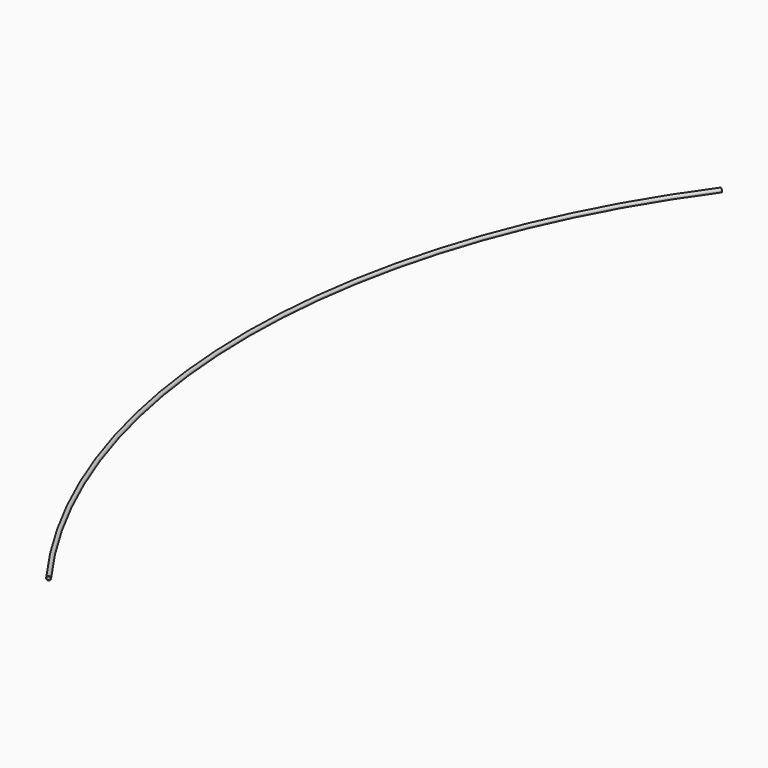
from build123d import *

# Parameters (mm, degrees)
F0_R          = 13.335
F0_R_2        = 11.227
F1_ANGLE_BACK = 36.005
F1_ANGLE      = 72.01


with BuildPart() as f1:
    # F0 (on Front) → F1 (revolve)
    with BuildSketch(Plane.XZ, mode=Mode.PRIVATE) as f1_sk:
        Circle(F0_R)
        Circle(F0_R_2, mode=Mode.SUBTRACT)
    revolve(f1_sk.sketch.rotate(Axis((4870, 0, -50), (0, 0, -1)), -F1_ANGLE_BACK), axis=Axis((4870, 0, -50), (0, 0, -1)), revolution_arc=F1_ANGLE)


solid = f1.part
